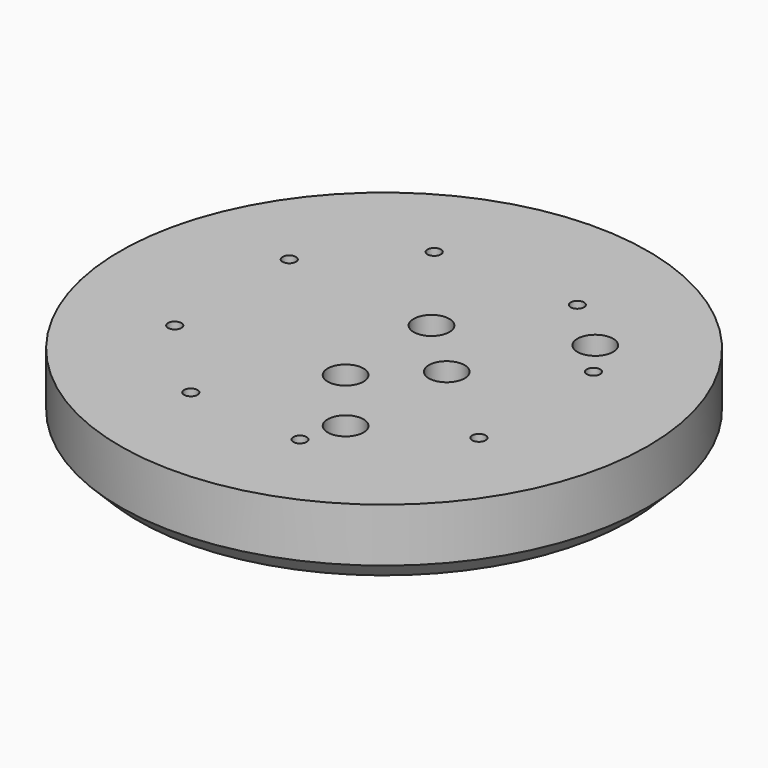
from build123d import *

# Parameters (mm, degrees)
CYLINDER1484_R     = 4
CYLINDER1484_DEPTH = 100
CYLINDER1483_R     = 4
CYLINDER1483_DEPTH = 100
CYLINDER1467_R     = 1.5
CYLINDER1467_DEPTH = 100
CYLINDER1468_R     = 1.5
CYLINDER1468_DEPTH = 100
CYLINDER1469_R     = 1.5
CYLINDER1469_DEPTH = 100
CYLINDER1470_R     = 1.5
CYLINDER1470_DEPTH = 100
CYLINDER1471_R     = 1.5
CYLINDER1471_DEPTH = 100
CYLINDER1472_R     = 1.5
CYLINDER1472_DEPTH = 100
CYLINDER1473_R     = 1.5
CYLINDER1473_DEPTH = 100
CYLINDER1466_R     = 1.5
CYLINDER1466_DEPTH = 100
CYLINDER1487_R     = 4
CYLINDER1487_DEPTH = 100
CYLINDER1485_R     = 4
CYLINDER1485_DEPTH = 100
CYLINDER1488_R     = 4
CYLINDER1488_DEPTH = 100
CYLINDER1489_R     = 4
CYLINDER1489_DEPTH = 100
CYLINDER1490_R     = 4
CYLINDER1490_DEPTH = 100
CYLINDER1491_R     = 4
CYLINDER1491_DEPTH = 100
CYLINDER1326_R     = 4
CYLINDER1326_DEPTH = 100
CYLINDER1486_R     = 4
CYLINDER1486_DEPTH = 100
CYLINDER1476_R     = 4
CYLINDER1476_DEPTH = 20
CYLINDER1477_R     = 4
CYLINDER1477_DEPTH = 20
CYLINDER1478_R     = 4
CYLINDER1478_DEPTH = 20
CYLINDER1479_R     = 4
CYLINDER1479_DEPTH = 40
CYLINDER1480_R     = 4
CYLINDER1480_DEPTH = 40
CYLINDER1481_R     = 4
CYLINDER1481_DEPTH = 40
CYLINDER1482_R     = 4
CYLINDER1482_DEPTH = 40
CYLINDER1475_R     = 4
CYLINDER1475_DEPTH = 20
CYLINDER1474_R     = 59
CYLINDER1474_DEPTH = 16
CHAMFER038_SIZE    = 4


with BuildPart() as obj1:
    # Cylinder1484 → Cylinder1484 (new body)
    with BuildSketch(Plane(origin=(14, 0, -18), x_dir=(1, 0, 0), z_dir=(0, 0, 1))):
        Circle(CYLINDER1484_R)
    extrude(amount=CYLINDER1484_DEPTH)


with BuildPart() as obj2:
    # Cylinder1483 → Cylinder1483 (new body)
    with BuildSketch(Plane(origin=(90, 0, -18), x_dir=(1, 0, 0), z_dir=(0, 0, 1))):
        Circle(CYLINDER1483_R)
    extrude(amount=CYLINDER1483_DEPTH)

    # Compound896: union obj1
    add(obj1.part)


with BuildPart() as obj3:
    # Cylinder1467 → Cylinder1467 (new body)
    with BuildSketch(Plane(origin=(-34, -16, -60), x_dir=(1, 0, 0), z_dir=(0, 0, 1))):
        Circle(CYLINDER1467_R)
    extrude(amount=CYLINDER1467_DEPTH)


with BuildPart() as obj4:
    # Cylinder1468 → Cylinder1468 (new body)
    with BuildSketch(Plane(origin=(34, -16, -60), x_dir=(1, 0, 0), z_dir=(0, 0, 1))):
        Circle(CYLINDER1468_R)
    extrude(amount=CYLINDER1468_DEPTH)


with BuildPart() as obj5:
    # Cylinder1469 → Cylinder1469 (new body)
    with BuildSketch(Plane(origin=(34, 16, -60), x_dir=(1, 0, 0), z_dir=(0, 0, 1))):
        Circle(CYLINDER1469_R)
    extrude(amount=CYLINDER1469_DEPTH)


with BuildPart() as obj6:
    # Cylinder1470 → Cylinder1470 (new body)
    with BuildSketch(Plane(origin=(16, 34, -60), x_dir=(1, 0, 0), z_dir=(0, 0, 1))):
        Circle(CYLINDER1470_R)
    extrude(amount=CYLINDER1470_DEPTH)


with BuildPart() as obj7:
    # Cylinder1471 → Cylinder1471 (new body)
    with BuildSketch(Plane(origin=(10, -36, -60), x_dir=(1, 0, 0), z_dir=(0, 0, 1))):
        Circle(CYLINDER1471_R)
    extrude(amount=CYLINDER1471_DEPTH)


with BuildPart() as obj8:
    # Cylinder1472 → Cylinder1472 (new body)
    with BuildSketch(Plane(origin=(-16, -34, -60), x_dir=(1, 0, 0), z_dir=(0, 0, 1))):
        Circle(CYLINDER1472_R)
    extrude(amount=CYLINDER1472_DEPTH)


with BuildPart() as obj9:
    # Cylinder1473 → Cylinder1473 (new body)
    with BuildSketch(Plane(origin=(-16, 34, -60), x_dir=(1, 0, 0), z_dir=(0, 0, 1))):
        Circle(CYLINDER1473_R)
    extrude(amount=CYLINDER1473_DEPTH)


with BuildPart() as obj10:
    # Cylinder1466 → Cylinder1466 (new body)
    with BuildSketch(Plane(origin=(-34, 16, -60), x_dir=(1, 0, 0), z_dir=(0, 0, 1))):
        Circle(CYLINDER1466_R)
    extrude(amount=CYLINDER1466_DEPTH)

    # Compound893: union obj3, obj4, obj5, obj6, obj7, obj8, obj9
    add(obj3.part)
    add(obj4.part)
    add(obj5.part)
    add(obj6.part)
    add(obj7.part)
    add(obj8.part)
    add(obj9.part)


with BuildPart() as obj11:
    # Cylinder1487 → Cylinder1487 (new body)
    with BuildSketch(Plane(origin=(-16, 34, -90), x_dir=(1, 0, 0), z_dir=(0, 0, 1))):
        Circle(CYLINDER1487_R)
    extrude(amount=CYLINDER1487_DEPTH)


with BuildPart() as obj12:
    # Cylinder1485 → Cylinder1485 (new body)
    with BuildSketch(Plane(origin=(-16, -34, -90), x_dir=(1, 0, 0), z_dir=(0, 0, 1))):
        Circle(CYLINDER1485_R)
    extrude(amount=CYLINDER1485_DEPTH)


with BuildPart() as obj13:
    # Cylinder1488 → Cylinder1488 (new body)
    with BuildSketch(Plane(origin=(34, -16, -90), x_dir=(1, 0, 0), z_dir=(0, 0, 1))):
        Circle(CYLINDER1488_R)
    extrude(amount=CYLINDER1488_DEPTH)


with BuildPart() as obj14:
    # Cylinder1489 → Cylinder1489 (new body)
    with BuildSketch(Plane(origin=(16, 34, -90), x_dir=(1, 0, 0), z_dir=(0, 0, 1))):
        Circle(CYLINDER1489_R)
    extrude(amount=CYLINDER1489_DEPTH)


with BuildPart() as obj15:
    # Cylinder1490 → Cylinder1490 (new body)
    with BuildSketch(Plane(origin=(10, -36, -90), x_dir=(1, 0, 0), z_dir=(0, 0, 1))):
        Circle(CYLINDER1490_R)
    extrude(amount=CYLINDER1490_DEPTH)


with BuildPart() as obj16:
    # Cylinder1491 → Cylinder1491 (new body)
    with BuildSketch(Plane(origin=(-34, 16, -90), x_dir=(1, 0, 0), z_dir=(0, 0, 1))):
        Circle(CYLINDER1491_R)
    extrude(amount=CYLINDER1491_DEPTH)


with BuildPart() as obj17:
    # Cylinder1326 → Cylinder1326 (new body)
    with BuildSketch(Plane(origin=(34, 16, -90), x_dir=(1, 0, 0), z_dir=(0, 0, 1))):
        Circle(CYLINDER1326_R)
    extrude(amount=CYLINDER1326_DEPTH)


with BuildPart() as obj18:
    # Cylinder1486 → Cylinder1486 (new body)
    with BuildSketch(Plane(origin=(-34, -16, -90), x_dir=(1, 0, 0), z_dir=(0, 0, 1))):
        Circle(CYLINDER1486_R)
    extrude(amount=CYLINDER1486_DEPTH)

    # Compound895: union obj11, obj12, obj13, obj14, obj15, obj16, obj17
    add(obj11.part)
    add(obj12.part)
    add(obj13.part)
    add(obj14.part)
    add(obj15.part)
    add(obj16.part)
    add(obj17.part)


with BuildPart() as obj19:
    # Cylinder1476 → Cylinder1476 (new body)
    with BuildSketch(Plane(origin=(103, 12, -20), x_dir=(1, 0, 0), z_dir=(0, 0, 1))):
        Circle(CYLINDER1476_R)
    extrude(amount=CYLINDER1476_DEPTH)


with BuildPart() as obj20:
    # Cylinder1477 → Cylinder1477 (new body)
    with BuildSketch(Plane(origin=(76, 24, -18), x_dir=(1, 0, 0), z_dir=(0, 0, 1))):
        Circle(CYLINDER1477_R)
    extrude(amount=CYLINDER1477_DEPTH)


with BuildPart() as obj21:
    # Cylinder1478 → Cylinder1478 (new body)
    with BuildSketch(Plane(origin=(91, -27, -18), x_dir=(1, 0, 0), z_dir=(0, 0, 1))):
        Circle(CYLINDER1478_R)
    extrude(amount=CYLINDER1478_DEPTH)


with BuildPart() as obj22:
    # Cylinder1479 → Cylinder1479 (new body)
    with BuildSketch(Plane(origin=(13, -27, -18), x_dir=(1, 0, 0), z_dir=(0, 0, 1))):
        Circle(CYLINDER1479_R)
    extrude(amount=CYLINDER1479_DEPTH)


with BuildPart() as obj23:
    # Cylinder1480 → Cylinder1480 (new body)
    with BuildSketch(Plane(origin=(28, 24, -18), x_dir=(1, 0, 0), z_dir=(0, 0, 1))):
        Circle(CYLINDER1480_R)
    extrude(amount=CYLINDER1480_DEPTH)


with BuildPart() as obj24:
    # Cylinder1481 → Cylinder1481 (new body)
    with BuildSketch(Plane(origin=(1, -12, -18), x_dir=(1, 0, 0), z_dir=(0, 0, 1))):
        Circle(CYLINDER1481_R)
    extrude(amount=CYLINDER1481_DEPTH)


with BuildPart() as obj25:
    # Cylinder1482 → Cylinder1482 (new body)
    with BuildSketch(Plane(origin=(1, 12, -18), x_dir=(1, 0, 0), z_dir=(0, 0, 1))):
        Circle(CYLINDER1482_R)
    extrude(amount=CYLINDER1482_DEPTH)


with BuildPart() as obj26:
    # Cylinder1475 → Cylinder1475 (new body)
    with BuildSketch(Plane(origin=(103, -12, -20), x_dir=(1, 0, 0), z_dir=(0, 0, 1))):
        Circle(CYLINDER1475_R)
    extrude(amount=CYLINDER1475_DEPTH)

    # Compound894: union obj19, obj20, obj21, obj22, obj23, obj24, obj25
    add(obj19.part)
    add(obj20.part)
    add(obj21.part)
    add(obj22.part)
    add(obj23.part)
    add(obj24.part)
    add(obj25.part)


with BuildPart() as cut308:
    # Cylinder1474 → Cylinder1474 (new body)
    with BuildSketch(Plane.XY.offset(2)):
        Circle(CYLINDER1474_R)
    extrude(amount=CYLINDER1474_DEPTH)

    # Cut305: cut obj26
    add(obj26.part, mode=Mode.SUBTRACT)

    # Cut306: cut obj18
    add(obj18.part, mode=Mode.SUBTRACT)

    # Cut307: cut obj10
    add(obj10.part, mode=Mode.SUBTRACT)

    # Chamfer038
    chamfer038_edges = [cut308.edges().sort_by_distance(p)[0] for p in [
        (-59, 0, 2),
    ]]
    chamfer(chamfer038_edges, length=CHAMFER038_SIZE)

    # Cut308: cut obj2
    add(obj2.part, mode=Mode.SUBTRACT)


with BuildPart() as cut308_1:
    # Cut308 placement: moved
    add(cut308.part.moved(Location((0, 0, 4))))


solid = cut308_1.part
